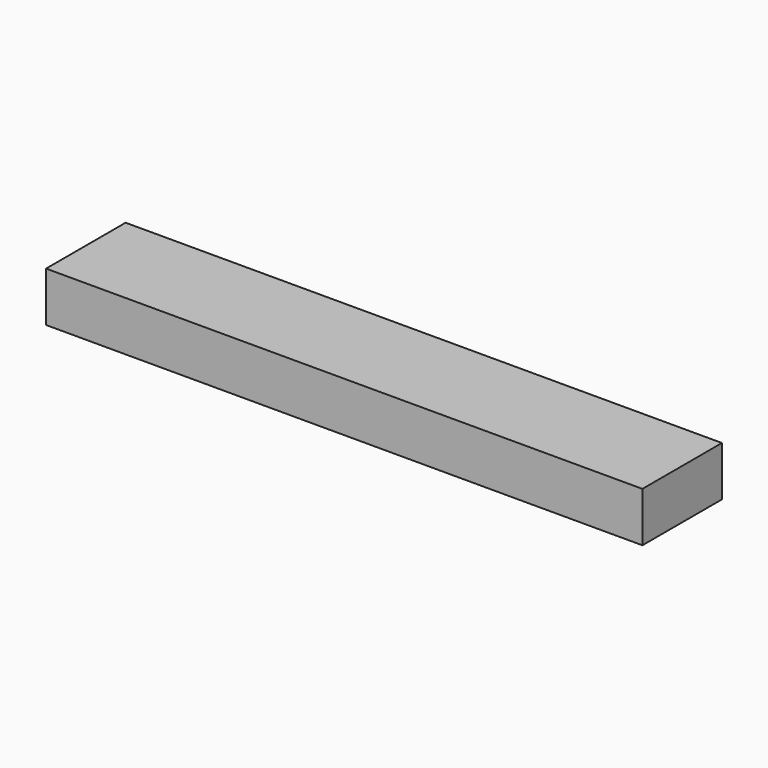
from build123d import *

# Parameters (mm, degrees)
SKETCH_W  = 120
SKETCH_H  = 20
PAD_DEPTH = 10


with BuildPart() as part:
    # Sketch → Pad (new body)
    with BuildSketch(Plane.XY):
        with Locations((-10, 2.061342)):
            Rectangle(SKETCH_W, SKETCH_H)
    extrude(amount=PAD_DEPTH)


solid = part.part
